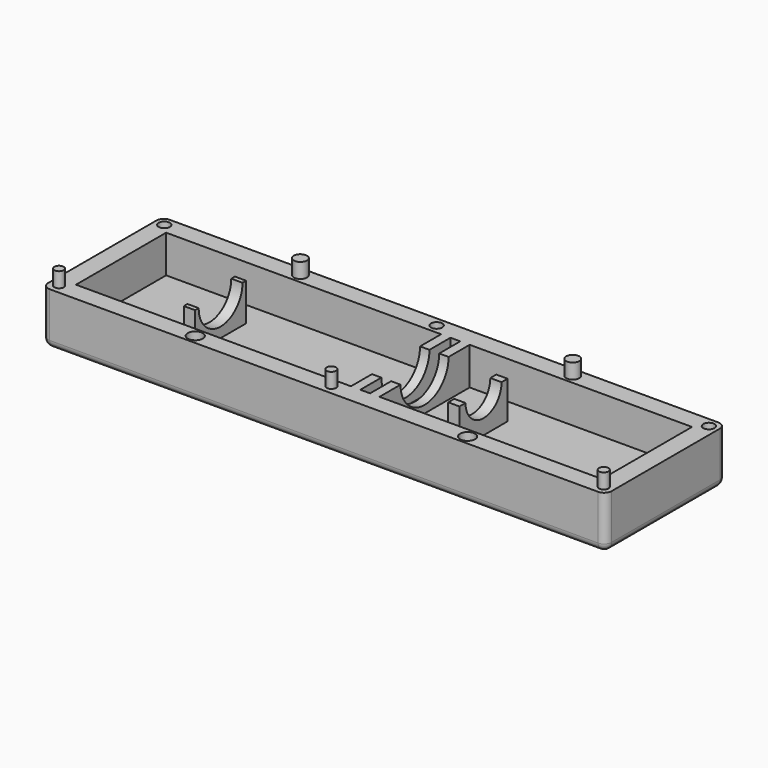
from build123d import *

# Parameters (mm, degrees)
F0_W      = 3
F0_H      = 1
F0_H_2    = 15
F1_DEPTH  = 10
F0_W_2    = 150.0000016391
F0_H_3    = 40.0000016391
F0_R      = 1.25
F0_R_2    = 2
F0_R_3    = 1.5
F0_R_4    = 1.75
F0_W_3    = 2.5
F0_H_4    = 7.5
F0_H_5    = 3
F0_H_6    = 10
F3_DEPTH  = 3
F5_DEPTH  = 7.6
F7_DEPTH  = 3
F8_DEPTH  = 4
F9_DEPTH  = 5
F10_W     = 150.0000016391
F10_H     = 40.0000016391
F10_W_2   = 73.2
F10_H_2   = 30
F10_W_3   = 2.6
F10_W_4   = 59.2
F11_DEPTH = 4
F13_R     = 2


with BuildPart() as f1:
    # F0 (on Top) → F1 (new body)
    with BuildSketch(Plane.XY):
        with Locations((-45, 8)):
            Rectangle(F0_W, F0_H)
        with Locations((-45, 0)):
            Rectangle(F0_W, F0_H_2)
        with Locations((-45, -8)):
            Rectangle(F0_W, F0_H)
    extrude(amount=-F1_DEPTH)

    # F2 (on face) → F3 (cut, through all)
    with BuildSketch(Plane(origin=(-46.5, 0, 0), x_dir=(0, -1, 0), z_dir=(-1, 0, 0))):
        with BuildLine():
            ThreePointArc((-7.3, 0), (0, -7.3), (7.3, 0))
            Line((7.3, 0), (-7.3, 0))
        make_face()
    extrude(amount=-F3_DEPTH, mode=Mode.SUBTRACT)


with BuildPart() as f1b:
    # F0 (on Top) → F1, piece 2 (new body)
    with BuildSketch(Plane.XY):
        Rectangle(F0_W_2, F0_H_3)
        with Locations((-72.5000004098, -17.5000004098)):
            Circle(F0_R, mode=Mode.SUBTRACT)
        with Locations((-36.2500004098, -17.5000004098)):
            Circle(F0_R_2, mode=Mode.SUBTRACT)
        with Locations((-4.098e-07, -17.5000004098)):
            Circle(F0_R, mode=Mode.SUBTRACT)
        with Locations((36.2499995902, -17.5000004098)):
            Circle(F0_R_2, mode=Mode.SUBTRACT)
        with Locations((72.4999995902, -17.5000004098)):
            Circle(F0_R, mode=Mode.SUBTRACT)
        Polygon((-70, -15), (-70, 15), (3.2, 15), (5.7, 15), (8.3, 15), (10.8, 15), (70, 15), (70, -15), (10.8, -15), (8.3, -15), (5.7, -15), (3.2, -15), align=None, mode=Mode.SUBTRACT)
        with Locations((-72.5000004098, 17.4999995902)):
            Circle(F0_R_3, mode=Mode.SUBTRACT)
        with Locations((-36.2500004098, 17.4999995902)):
            Circle(F0_R_4, mode=Mode.SUBTRACT)
        with Locations((-4.098e-07, 17.4999995902)):
            Circle(F0_R_3, mode=Mode.SUBTRACT)
        with Locations((36.2499995902, 17.4999995902)):
            Circle(F0_R_4, mode=Mode.SUBTRACT)
        with Locations((72.4999995902, 17.4999995902)):
            Circle(F0_R_3, mode=Mode.SUBTRACT)
        with Locations((9.55, 0)):
            Rectangle(F0_W_3, F0_H_2)
        with Locations((4.45, 0)):
            Rectangle(F0_W_3, F0_H_2)
        with Locations((4.45, 11.25)):
            Rectangle(F0_W_3, F0_H_4)
        with Locations((9.55, 11.25)):
            Rectangle(F0_W_3, F0_H_4)
        with Locations((4.45, -11.25)):
            Rectangle(F0_W_3, F0_H_4)
        with Locations((9.55, -11.25)):
            Rectangle(F0_W_3, F0_H_4)
        with Locations((-36.2500004098, -17.5000004098)):
            Circle(F0_R_2)
        with Locations((36.2499995902, -17.5000004098)):
            Circle(F0_R_2)
        with Locations((-36.2500004098, 17.4999995902)):
            Circle(F0_R_4)
        with Locations((36.2499995902, 17.4999995902)):
            Circle(F0_R_4)
        with Locations((72.4999995902, 17.4999995902)):
            Circle(F0_R_3)
        with Locations((-4.098e-07, 17.4999995902)):
            Circle(F0_R_3)
        with Locations((-72.5000004098, 17.4999995902)):
            Circle(F0_R_3)
        with Locations((-72.5000004098, -17.5000004098)):
            Circle(F0_R)
        with Locations((-4.098e-07, -17.5000004098)):
            Circle(F0_R)
        with Locations((72.4999995902, -17.5000004098)):
            Circle(F0_R)
    extrude(amount=-F1_DEPTH)

    # F4 (on face) → F5 (cut, through all)
    with BuildSketch(Plane(origin=(3.2, 0, 0), x_dir=(0, -1, 0), z_dir=(-1, 0, 0))):
        with BuildLine():
            ThreePointArc((-8, 0), (0, -8), (8, 0))
            Line((8, 0), (-8, 0))
        make_face()
    extrude(amount=-F5_DEPTH, mode=Mode.SUBTRACT)

    # F0 (on Top) → F8 (join)
    with BuildSketch(Plane.XY):
        with Locations((-72.5000004098, -17.5000004098)):
            Circle(F0_R)
        with Locations((-4.098e-07, -17.5000004098)):
            Circle(F0_R)
        with Locations((72.4999995902, -17.5000004098)):
            Circle(F0_R)
        with Locations((-36.2500004098, 17.4999995902)):
            Circle(F0_R_4)
        with Locations((36.2499995902, 17.4999995902)):
            Circle(F0_R_4)
    extrude(amount=F8_DEPTH)

    # F0 (on Top) → F9 (cut)
    with BuildSketch(Plane.XY):
        with Locations((-4.098e-07, 17.4999995902)):
            Circle(F0_R_3)
        with Locations((72.4999995902, 17.4999995902)):
            Circle(F0_R_3)
        with Locations((-72.5000004098, 17.4999995902)):
            Circle(F0_R_3)
        with Locations((-36.2500004098, -17.5000004098)):
            Circle(F0_R_2)
        with Locations((36.2499995902, -17.5000004098)):
            Circle(F0_R_2)
    extrude(amount=-F9_DEPTH, mode=Mode.SUBTRACT)


with BuildPart() as f1c:
    # F0 (on Top) → F1, piece 3 (new body)
    with BuildSketch(Plane.XY):
        with Locations((25, 6.5)):
            Rectangle(F0_W, F0_H_5)
        with Locations((25, 0)):
            Rectangle(F0_W, F0_H_6)
        with Locations((25, -6.5)):
            Rectangle(F0_W, F0_H_5)
    extrude(amount=-F1_DEPTH)

    # F6 (on face) → F7 (cut, through all)
    with BuildSketch(Plane(origin=(23.5, 0, 0), x_dir=(0, -1, 0), z_dir=(-1, 0, 0))):
        with BuildLine():
            ThreePointArc((-6, 0), (0, -6), (6, 0))
            Line((6, 0), (-6, 0))
        make_face()
    extrude(amount=-F7_DEPTH, mode=Mode.SUBTRACT)


with BuildPart() as f11:
    # F10 (on face) → F11 (new body)
    with BuildSketch(Plane(origin=(0, 0, -10), x_dir=(1, 0, 0), z_dir=(0, 0, -1))):
        Rectangle(F10_W, F10_H)
        with Locations((-33.4, 0)):
            Rectangle(F10_W_2, F10_H_2, mode=Mode.SUBTRACT)
        with Locations((7, 0)):
            Rectangle(F10_W_3, F10_H_2, mode=Mode.SUBTRACT)
        with Locations((40.4, 0)):
            Rectangle(F10_W_4, F10_H_2, mode=Mode.SUBTRACT)
        with Locations((-33.4, 0)):
            Rectangle(F10_W_2, F10_H_2)
        with Locations((40.4, 0)):
            Rectangle(F10_W_4, F10_H_2)
        with Locations((7, 0)):
            Rectangle(F10_W_3, F10_H_2)
    extrude(amount=F11_DEPTH)

    # F12: union F1c, F1b, F1
    add(f1c.part)
    add(f1b.part)
    add(f1.part)

    # F13
    f13_edges = [f11.edges().sort_by_distance(p)[0] for p in [
        (-75.000001, -20.000001, -7),
        (75.000001, -20.000001, -7),
        (75.000001, 20.000001, -7),
        (-75.000001, 20.000001, -7),
        (-75.000001, 0, -14),
        (0, -20.000001, -14),
        (0, 20.000001, -14),
        (75.000001, 0, -14),
    ]]
    fillet(f13_edges, radius=F13_R)


solid = f11.part
